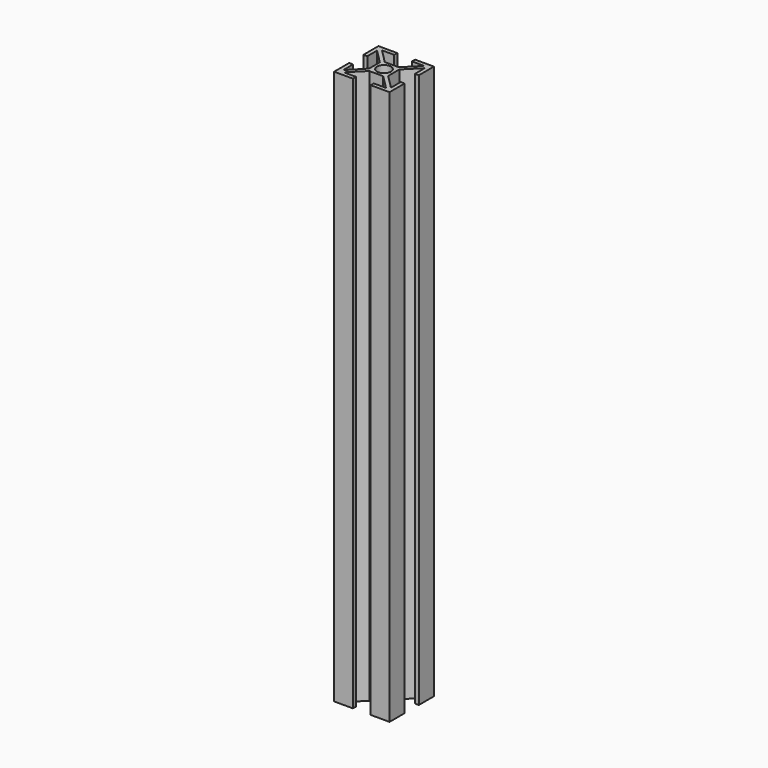
from build123d import *

# Parameters (mm, degrees)
F0_R     = 2.5
F1_DEPTH = 200


with BuildPart() as f1:
    # F0 (on Top) → F1 (new body)
    with BuildSketch(Plane.XY):
        Polygon((6.5, 7.616114), (1.4, 2.389949), (1.4, 6.8), (0, 6.8), (0, 0), (6.8, 0), (6.8, 1.4), (2.389949, 1.4), (7.489949, 6.5), (12.510051, 6.5), (17.610051, 1.4), (13.2, 1.4), (13.2, 0), (20, 0), (20, 6.8), (18.6, 6.8), (18.6, 2.389949), (13.5, 7.489949), (13.5, 12.510051), (18.6, 17.610051), (18.6, 13.2), (20, 13.2), (20, 20), (13.2, 20), (13.2, 18.6), (17.610051, 18.6), (12.510051, 13.5), (7.489949, 13.5), (2.389949, 18.6), (6.8, 18.6), (6.8, 20), (0, 20), (0, 13.2), (1.4, 13.2), (1.4, 17.610051), (6.5, 12.510051), align=None)
        with Locations((10, 10)):
            Circle(F0_R, mode=Mode.SUBTRACT)
    extrude(amount=F1_DEPTH)


solid = f1.part
